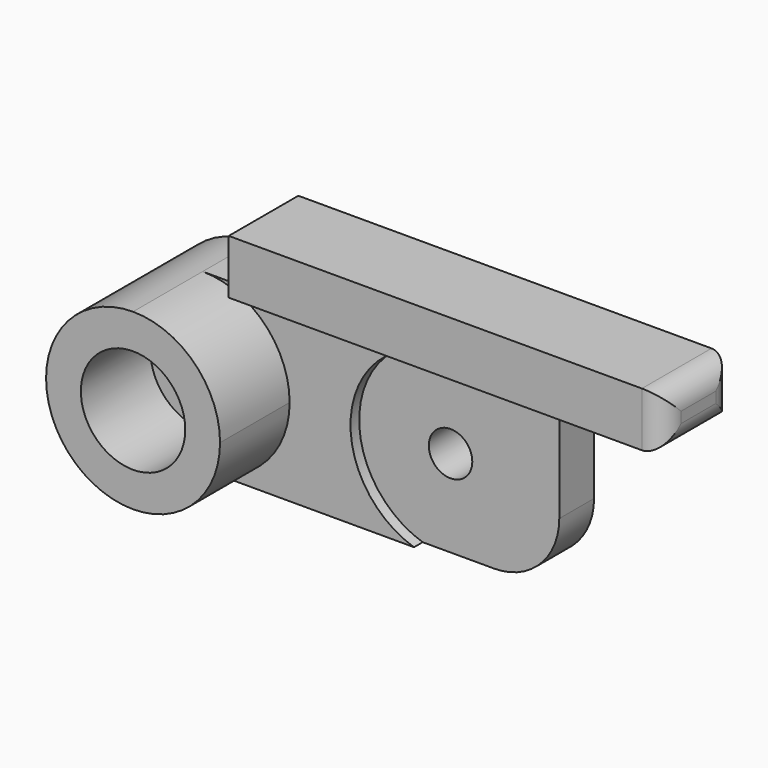
from build123d import *

# Parameters (mm, degrees)
F0_R      = 1
F1_DEPTH  = 3
F0_R_2    = 2.4
F2_DEPTH  = 7
F0_R_3    = 0.5
F3_DEPTH  = 3
F6_DEPTH  = 0.5
F7_DEPTH  = 4
F8_R      = 3
F9_R      = 1
F11_DEPTH = 0.5


with BuildPart() as f1:
    # F0 (on Front) → F1 (new body)
    with BuildSketch(Plane.XZ):
        with BuildLine():
            ThreePointArc((0, 4), (2.828427, 2.828427), (4, 0))
            ThreePointArc((4, 0), (2.828427, -2.828427), (0, -4))
            Line((0, -4), (16, -4))
            Line((16, -4), (16, 0))
            Line((16, 0), (16, 4))
            Line((16, 4), (6, 4))
            Line((6, 4), (2, 4))
            Line((2, 4), (0, 4))
        make_face()
        with Locations((11, 0)):
            Circle(F0_R, mode=Mode.SUBTRACT)
    extrude(amount=F1_DEPTH)

    # F0 (on Front) → F2 (join)
    with BuildSketch(Plane.XZ):
        with BuildLine():
            ThreePointArc((0, -4), (2.828427, -2.828427), (4, 0))
            ThreePointArc((4, 0), (2.828427, 2.828427), (0, 4))
            ThreePointArc((0, 4), (-4, 0), (0, -4))
        make_face()
        Circle(F0_R_2, mode=Mode.SUBTRACT)
    extrude(amount=F2_DEPTH)

    # F0 (on Front) → F3 (join)
    with BuildSketch(Plane.XZ):
        Circle(F0_R_2)
        Circle(F0_R_3, mode=Mode.SUBTRACT)
    extrude(amount=F3_DEPTH)

    # F5 (on Front) → F6 (cut)
    with BuildSketch(Plane.XZ):
        with BuildLine():
            Line((19.387725, -4), (19.387725, 4))
            Line((19.387725, 4), (9.719375, 4))
            ThreePointArc((9.719375, 4), (6.8, 0), (9.719375, -4))
            Line((9.719375, -4), (19.387725, -4))
        make_face()
    extrude(amount=F6_DEPTH, mode=Mode.SUBTRACT)

    # F0 (on Front) → F7 (join)
    with BuildSketch(Plane.XZ):
        Polygon((2, 6.5), (2, 4), (6, 4), (16, 4), (22, 4), (22, 6.5), align=None)
    extrude(amount=F7_DEPTH)

    # F8
    f8_edges = [f1.edges().sort_by_distance(p)[0] for p in [
        (16, -1.75, -4),
    ]]
    fillet(f8_edges, radius=F8_R)

    # F9
    f9_edges = [f1.edges().sort_by_distance(p)[0] for p in [
        (22, -2, 4),
        (22, -4, 5.25),
        (22, 0, 5.25),
        (22, -2, 6.5),
    ]]
    fillet(f9_edges, radius=F9_R)

    # F10 (on offset) → F11 (cut)
    with BuildSketch(Plane.XZ.offset(3)):
        with BuildLine():
            Line((19.387725, -4), (19.387725, 4))
            Line((19.387725, 4), (9.719375, 4))
            ThreePointArc((9.719375, 4), (6.8, 0), (9.719375, -4))
            Line((9.719375, -4), (19.387725, -4))
        make_face()
    extrude(amount=-F11_DEPTH, mode=Mode.SUBTRACT)


solid = f1.part
